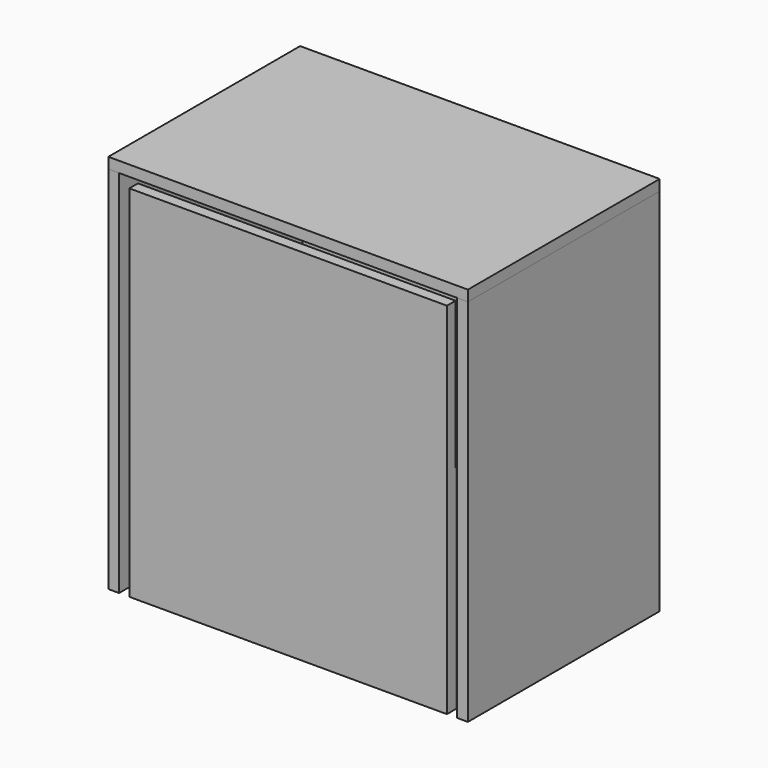
from build123d import *

# Parameters (mm, degrees)
F1_DEPTH  = 400
F2_DEPTH  = 400
F3_DEPTH  = 400
F0_W      = 564
F0_H      = 400
F4_DEPTH  = 18
F6_DEPTH  = 265
F7_DEPTH  = 265
F5_W      = 18
F5_H      = 337
F8_DEPTH  = 265
F9_START  = 247
F5_H_2    = 50
F9_DEPTH  = 18
F10_W     = 130
F10_H     = 40
F11_DEPTH = 18
F12_R     = 10


with BuildPart() as f1:
    # F0 (on Front) → F1 (new body)
    with BuildSketch(Plane.XZ):
        Polygon((-282, 0), (-282, 217), (-282, 617), (-300, 617), (-300, 0), align=None)
    extrude(amount=F1_DEPTH)


with BuildPart() as f2:
    # F0 (on Front) → F2 (new body)
    with BuildSketch(Plane.XZ):
        Polygon((282, 217), (282, 0), (300, 0), (300, 617), (282, 617), align=None)
    extrude(amount=F2_DEPTH)


with BuildPart() as f3:
    # F0 (on Front) → F3 (new body)
    with BuildSketch(Plane.XZ):
        Polygon((282, 617), (300, 617), (300, 635), (-300, 635), (-300, 617), (-282, 617), align=None)
    extrude(amount=F3_DEPTH)


with BuildPart() as f4:
    # F0 (on Front) → F4 (new body)
    with BuildSketch(Plane.XZ):
        with Locations((0, 417)):
            Rectangle(F0_W, F0_H)
    extrude(amount=F4_DEPTH)


with BuildPart() as f6:
    # F5 (on Right) → F6 (new body, symmetric)
    with BuildSketch(Plane.YZ):
        Polygon((-382, 600), (-400, 600), (-400, 0), (-382, 0), (-382, 287), (-382, 337), (-382, 355), align=None)
    extrude(amount=F6_DEPTH, both=True)


with BuildPart() as f7:
    # F5 (on Right) → F7 (new body, symmetric)
    with BuildSketch(Plane.YZ):
        Polygon((-40, 355), (-382, 355), (-382, 337), (-364, 337), (-58, 337), (-40, 337), align=None)
    extrude(amount=F7_DEPTH, both=True)


with BuildPart() as f8:
    # F5 (on Right) → F8 (new body, symmetric)
    with BuildSketch(Plane.YZ):
        with Locations((-49, 168.5)):
            Rectangle(F5_W, F5_H)
    extrude(amount=F8_DEPTH, both=True)


with BuildPart() as f9:
    # F5 (on Right) → F9 (new body)
    with BuildSketch(Plane.YZ.offset(F9_START)):
        Polygon((-382, 287), (-382, 0), (-58, 0), (-58, 337), (-364, 337), (-364, 287), align=None)
        with Locations((-373, 312)):
            Rectangle(F5_W, F5_H_2)
    extrude(amount=F9_DEPTH)

    # F10 (on face) → F11 (cut, through all)
    with BuildSketch(Plane.YZ.offset(265)):
        with Locations((-220, 317)):
            Rectangle(F10_W, F10_H)
    extrude(amount=-F11_DEPTH, mode=Mode.SUBTRACT)

    # F12
    f12_edges = [f9.edges().sort_by_distance(p)[0] for p in [
        (256, -285, 297),
        (256, -155, 297),
    ]]
    fillet(f12_edges, radius=F12_R)


solid = Compound([f1.part, f2.part, f3.part, f4.part, f6.part, f7.part, f8.part, f9.part])
